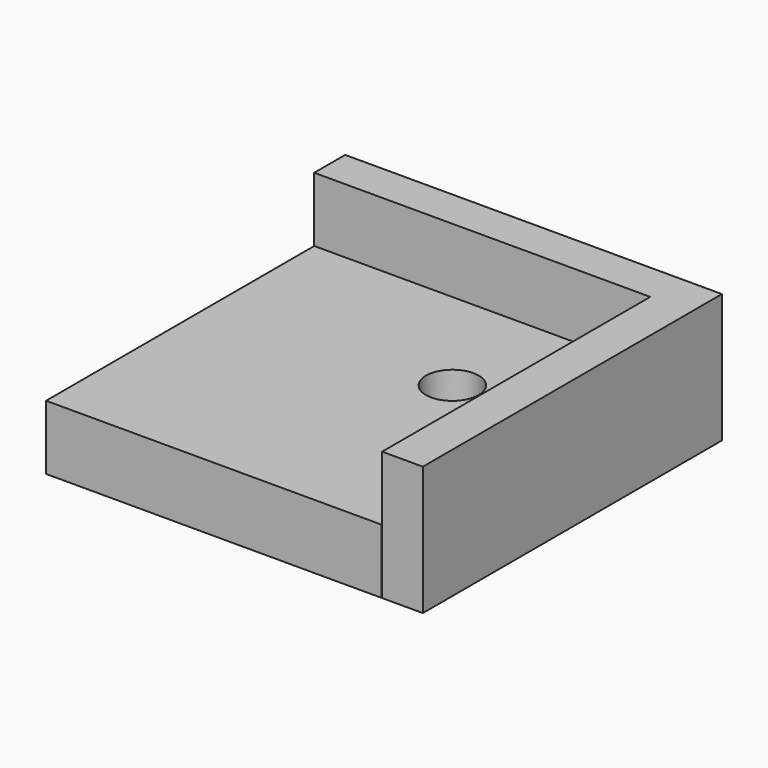
from build123d import *

# Parameters (mm, degrees)
F0_W     = 26
F0_H     = 3
F1_DEPTH = 10
F0_H_2   = 26
F0_R     = 2.04741
F2_DEPTH = 5


with BuildPart() as f1:
    # F0 (on Top) → F1 (new body)
    with BuildSketch(Plane.XY):
        Polygon((12.966245, 13), (13.033755, 13), (13.033755, -13), (16.189865, -13), (16.189865, 16), (12.966245, 16), align=None)
        with Locations((-0.033755, 14.5)):
            Rectangle(F0_W, F0_H)
    extrude(amount=F1_DEPTH)

    # F0 (on Top) → F2 (join)
    with BuildSketch(Plane.XY):
        with Locations((-0.033755, 0)):
            Rectangle(F0_W, F0_H_2)
        with Locations((4.918835, 3.95259)):
            Circle(F0_R, mode=Mode.SUBTRACT)
    extrude(amount=F2_DEPTH)


solid = f1.part
